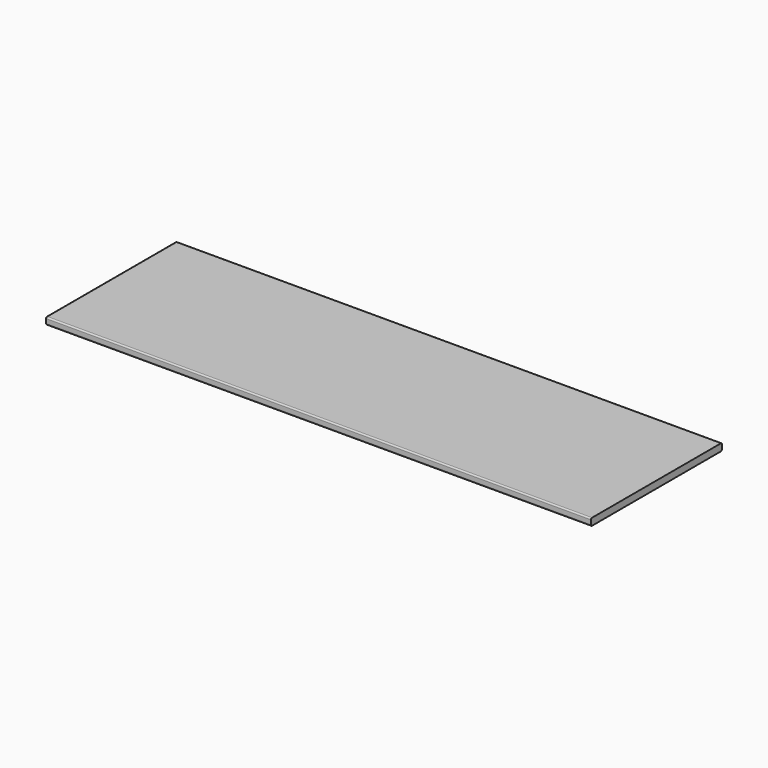
from build123d import *

# Parameters (mm, degrees)
F0_W     = 2200
F0_H     = 600
F1_DEPTH = 26
F2_R     = 5
F3_W     = 600
F3_H     = 26
F4_DEPTH = 200


with BuildPart() as f1:
    # F0 (on Top) → F1 (new body)
    with BuildSketch(Plane.XY):
        Rectangle(F0_W, F0_H)
    extrude(amount=F1_DEPTH)

    # F2
    f2_edges = [f1.edges().sort_by_distance(p)[0] for p in [
        (-1100, 0, 26),
        (0, -300, 26),
        (1100, 0, 26),
        (0, 300, 26),
        (-1100, 0, 0),
        (0, -300, 0),
        (1100, 0, 0),
        (0, 300, 0),
        (-1100, -300, 13),
        (-1100, 300, 13),
        (1100, 300, 13),
        (1100, -300, 13),
    ]]
    fillet(f2_edges, radius=F2_R)

    # F3 (on face) → F4 (cut)
    with BuildSketch(Plane.YZ.offset(1100)):
        with Locations((0, 13)):
            Rectangle(F3_W, F3_H)
    extrude(amount=-F4_DEPTH, mode=Mode.SUBTRACT)


solid = f1.part
